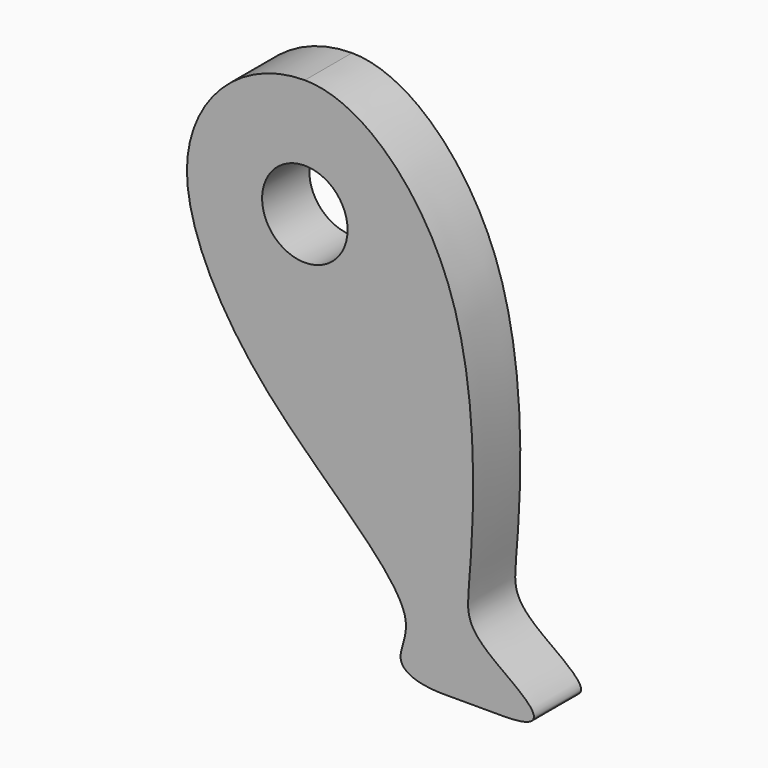
from build123d import *

# Parameters (mm, degrees)
F0_R     = 1.84
F1_DEPTH = 2.54


with BuildPart() as f1:
    # F0 (on Front) → F1 (new body)
    with BuildSketch(Plane.XZ):
        with BuildLine():
            add(Edge.make_bspline(
                [(-5.08, 0), (-5.08, -2.0701933077), (-2.4902425216, -7.5481152127), (5.4268623061, -13.3163347102), (3.6045037818, -15.7536391701), (4.8942161332, -16.26), (6, -16.26)],
                knots=[0, 0, 0, 0, 0.3315285028, 0.6827384204, 0.8343280831, 1, 1, 1, 1], degree=3))
            Line((6, -16.26), (8.5, -16.26))
            add(Edge.make_bspline(
                [(0, 5.08), (2.3803001598, 5.08), (7.8959100404, -0.1302706377), (7.0935467225, -11.9300862484), (6.8721692717, -13.7110957038), (11.2196656871, -16.26), (8.5, -16.26)],
                knots=[0, 0, 0, 0, 0.3117051252, 0.6688309235, 0.847755336, 1, 1, 1, 1], degree=3))
            ThreePointArc((0, 5.08), (-3.5921024484, 3.5921024484), (-5.08, 0))
        make_face()
        Circle(F0_R, mode=Mode.SUBTRACT)
    extrude(amount=F1_DEPTH)


solid = f1.part
